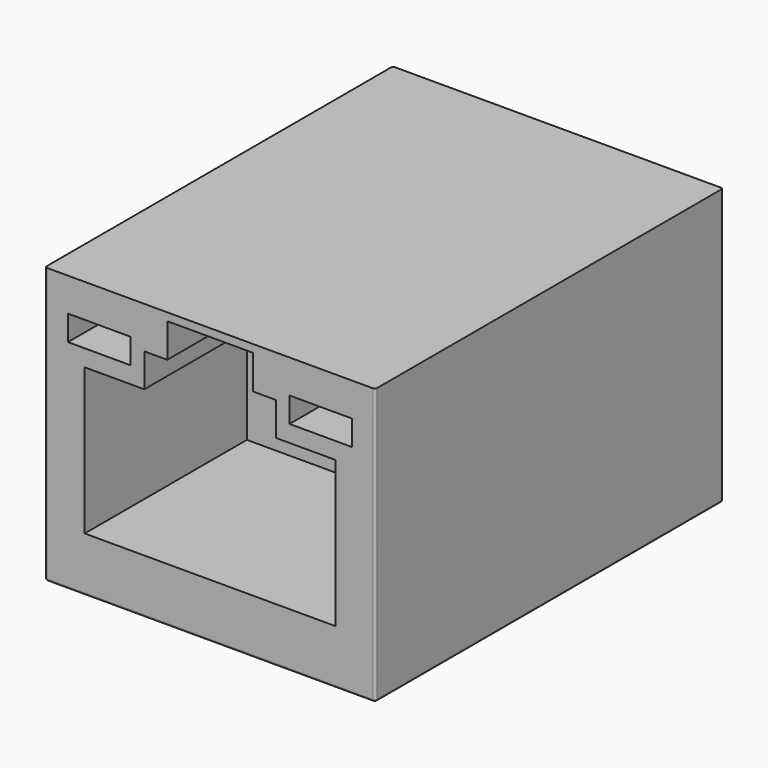
from build123d import *

# Parameters (mm, degrees)
BOX038_W               = 4.1
BOX038_H               = 5
BOX038_DEPTH           = 2
BOX038_PLACEMENT_ANGLE = 20
BOX037_W               = 2.85
BOX037_H               = 2.4
BOX037_DEPTH           = 1.5
BOX036_W               = 12
BOX036_H               = 1
BOX036_DEPTH           = 5
SKETCH012_W            = 3
SKETCH012_H            = 1.2
EXTRUDE005_DEPTH       = 10.8
BOX007_W               = 15.8
BOX007_H               = 20.8
BOX007_DEPTH           = 13.2
FILLET008_R            = 0.1


with BuildPart() as cube017:
    # Box038 → Box038 (new body)
    with BuildSketch(Plane.XY):
        with Locations((2.05, 2.5)):
            Rectangle(BOX038_W, BOX038_H)
    extrude(amount=BOX038_DEPTH)


with BuildPart() as cube017_1:
    # Box038 placement: moved
    add(cube017.part.moved(Location((-2.05, -1, 11.2))).rotate(Axis((-2.05, -1, 11.2), (-1, 0, 0)), BOX038_PLACEMENT_ANGLE))


with BuildPart() as cube016:
    # Box037 → Box037 (new body)
    with BuildSketch(Plane(origin=(3.15, 8.4, 8.2), x_dir=(1, 0, 0), z_dir=(0, 0, 1))):
        with Locations((1.425, 1.2)):
            Rectangle(BOX037_W, BOX037_H)
    extrude(amount=BOX037_DEPTH)


with BuildPart() as cube041:
    # Clone base: copy of Cube016
    add(cube016.part)


with BuildPart() as cube041_1:
    # Clone placement: moved
    add(cube041.part.moved(Location((-9.15, 0, 0))))


with BuildPart() as fusion024:
    # Box036 → Box036 (new body)
    with BuildSketch(Plane(origin=(-6, 9.8, 2.7), x_dir=(1, 0, 0), z_dir=(0, 0, 1))):
        with Locations((6, 0.5)):
            Rectangle(BOX036_W, BOX036_H)
    extrude(amount=BOX036_DEPTH)

    # Fusion024: union Cube016, Cube041
    add(cube016.part)
    add(cube041_1.part)


with BuildPart() as fusion025:
    # Sketch012 → Extrude005 (new body)
    with BuildSketch(Plane.XZ):
        Polygon((-6, 9.7), (-6, 2.7), (6, 2.7), (6, 9.7), (3.15, 9.7), (3.15, 11.3), (2.05, 11.3), (2.05, 12.5), (-2.05, 12.5), (-2.05, 11.3), (-3.15, 11.3), (-3.15, 9.7), align=None)
        with Locations((-5.3, 11.1)):
            Rectangle(SKETCH012_W, SKETCH012_H)
        with Locations((5.3, 11.1)):
            Rectangle(SKETCH012_W, SKETCH012_H)
    extrude(amount=-EXTRUDE005_DEPTH)

    # Cut001: cut Fusion024
    add(fusion024.part, mode=Mode.SUBTRACT)

    # Fusion025: union Cube017
    add(cube017_1.part)


with BuildPart() as fusion025_1:
    # Fusion025 placement: moved
    add(fusion025.part.moved(Location((0, 0.1, 0.1))))


with BuildPart() as body002:
    # Box007 → Box007 (new body)
    with BuildSketch(Plane(origin=(-7.9, 0.2, 0.2), x_dir=(1, 0, 0), z_dir=(0, 0, 1))):
        with Locations((7.9, 10.4)):
            Rectangle(BOX007_W, BOX007_H)
    extrude(amount=BOX007_DEPTH)

    # Fillet008
    fillet008_edges = [body002.edges().sort_by_distance(p)[0] for p in [
        (-7.9, 0.2, 6.8),
        (-7.9, 21, 6.8),
        (-7.9, 10.6, 0.2),
        (7.9, 0.2, 6.8),
        (7.9, 21, 6.8),
        (7.9, 10.6, 0.2),
        (0, 0.2, 0.2),
        (0, 21, 0.2),
    ]]
    fillet(fillet008_edges, radius=FILLET008_R)

    # Cut008: cut Fusion025
    add(fusion025_1.part, mode=Mode.SUBTRACT)


solid = body002.part
